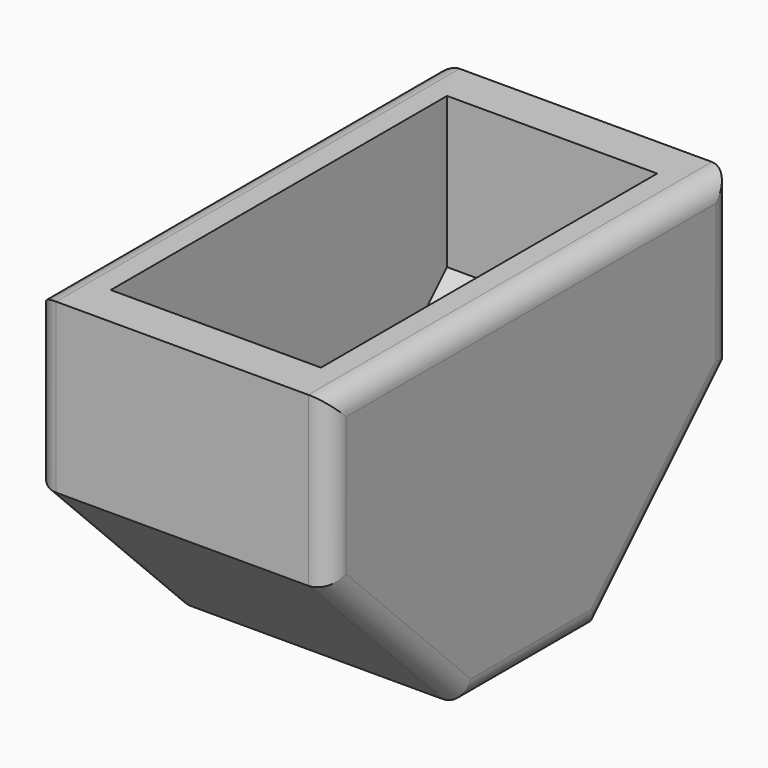
from build123d import *

# Parameters (mm, degrees)
F1_DEPTH = 11.1125
F2_T     = -1.5875
F3_R     = 0.79375


with BuildPart() as f1:
    # F0 (on Right) → F1 (new body)
    with BuildSketch(Plane.YZ):
        Polygon((15.306922, -42.509722), (-3.743078, -42.509722), (-3.743078, -48.859722), (2.606922, -55.209722), (8.956922, -55.209722), (15.306922, -48.859722), align=None)
    extrude(amount=F1_DEPTH)

    # F2
    f2_openings = [f1.faces().sort_by_distance(p)[0] for p in [
        (5.55625, 5.781922, -42.509722),
    ]]
    offset(amount=F2_T, openings=f2_openings)

    # F3
    f3_edges = [f1.edges().sort_by_distance(p)[0] for p in [
        (11.1125, 5.781922, -42.509722),
        (11.1125, -3.743078, -45.684722),
        (11.1125, -0.568078, -52.034722),
        (11.1125, 5.781922, -55.209722),
        (11.1125, 12.131922, -52.034722),
        (11.1125, 15.306922, -45.684722),
        (0, 5.781922, -42.509722),
        (0, -3.743078, -45.684722),
        (0, -0.568078, -52.034722),
        (0, 5.781922, -55.209722),
        (0, 12.131922, -52.034722),
        (0, 15.306922, -45.684722),
    ]]
    fillet(f3_edges, radius=F3_R)


solid = f1.part
